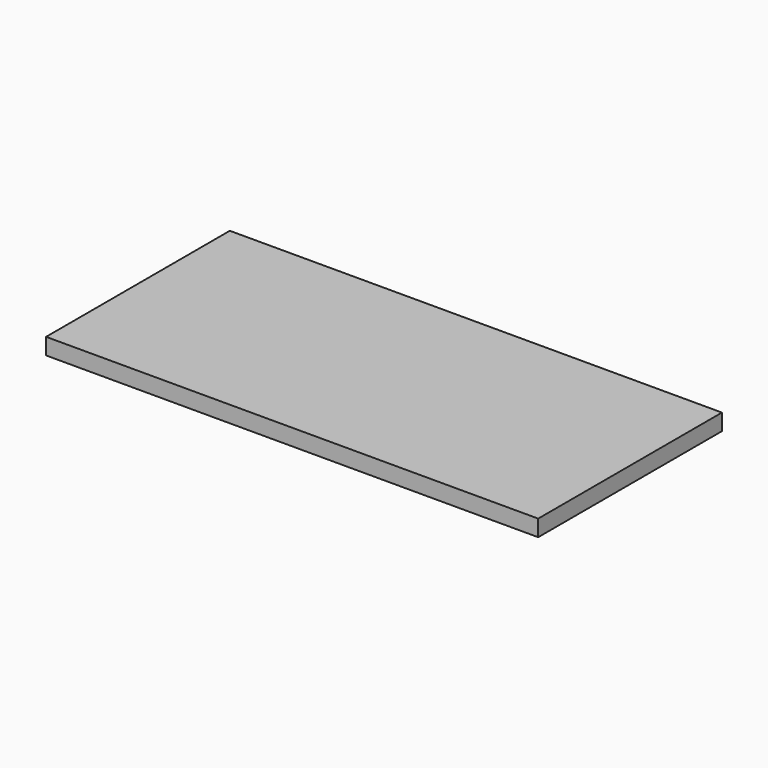
from build123d import *

# Parameters (mm, degrees)
F0_W     = 3048
F0_H     = 1422.4
F1_DEPTH = 101.6
F2_W     = 2438.4
F2_H     = 1066.8
F3_DEPTH = 50.8


with BuildPart() as f1:
    # F0 (on Top) → F1 (new body)
    with BuildSketch(Plane.XY):
        Rectangle(F0_W, F0_H)
    extrude(amount=F1_DEPTH)

    # F2 (on face) → F3 (cut)
    with BuildSketch(Plane(origin=(0, 0, 0), x_dir=(1, 0, 0), z_dir=(0, 0, -1))):
        Rectangle(F2_W, F2_H)
    extrude(amount=-F3_DEPTH, mode=Mode.SUBTRACT)


solid = f1.part
